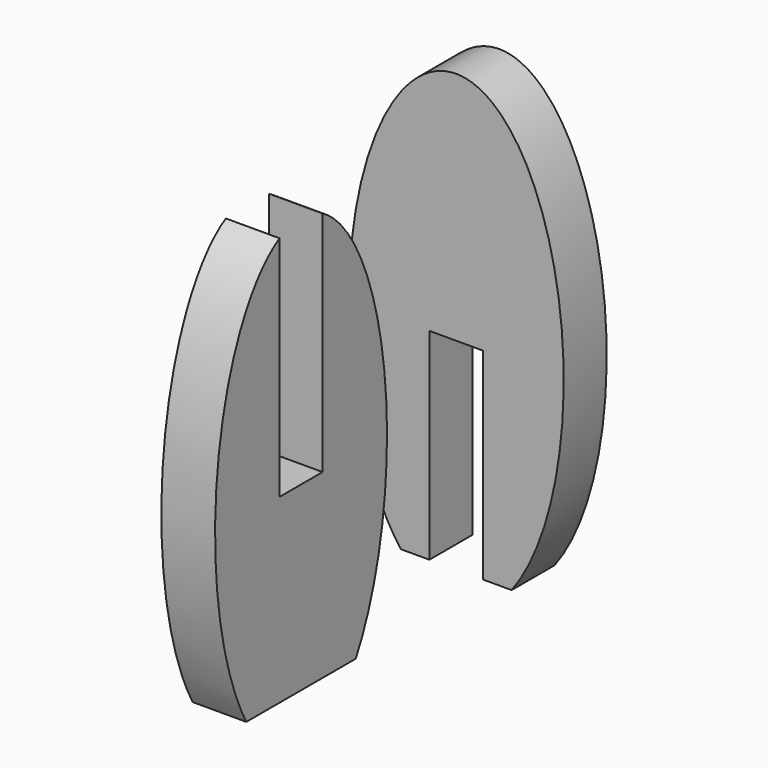
from build123d import *

# Parameters (mm, degrees)
F1_DEPTH = 6.35
F3_DEPTH = 6.35


with BuildPart() as f1:
    # F0 (on Front) → F1 (new body)
    with BuildSketch(Plane.XZ):
        with BuildLine():
            Line((3.175, 21.626065), (6.5415, 21.626065))
            add(Edge.make_bspline(
                [(6.5415, 21.626065), (45.790501, 73.219815), (0, 73.219815), (-45.790501, 73.219815), (-6.5415, 21.626065)],
                knots=[0.5411, 0.5411, 0.5411, 3.141593, 3.141593, 5.742086, 5.742086, 5.742086], degree=2, weights=[1, 0.267261, 1, 0.267261, 1]))
            Line((-6.5415, 21.626065), (-3.175, 21.626065))
            Line((-3.175, 21.626065), (-3.175, 45.444915))
            Line((-3.175, 45.444915), (3.175, 45.444915))
            Line((3.175, 45.444915), (3.175, 21.626065))
        make_face()
    extrude(amount=F1_DEPTH)


with BuildPart() as f3:
    # F2 (on Right) → F3 (new body)
    with BuildSketch(Plane.YZ):
        with BuildLine():
            Line((-40.396078, 45.108791), (-40.396078, 72.014221))
            add(Edge.make_bspline(
                [(-40.396078, 72.014221), (-64.532271, 58.381855), (-45.30229, 23.683891)],
                knots=[0.25268, 0.25268, 0.25268, 2.451879, 2.451879, 2.451879], degree=2, weights=[1, 0.453953, 1]))
            Line((-45.30229, 23.683891), (-29.139865, 23.683891))
            add(Edge.make_bspline(
                [(-29.139865, 23.683891), (-9.909883, 58.381856), (-34.046078, 72.014221)],
                knots=[3.831306, 3.831306, 3.831306, 6.030505, 6.030505, 6.030505], degree=2, weights=[1, 0.453953, 1]))
            Line((-34.046078, 72.014221), (-34.046078, 45.108791))
            Line((-34.046078, 45.108791), (-40.396078, 45.108791))
        make_face()
    extrude(amount=F3_DEPTH)


solid = Compound([f1.part, f3.part])
